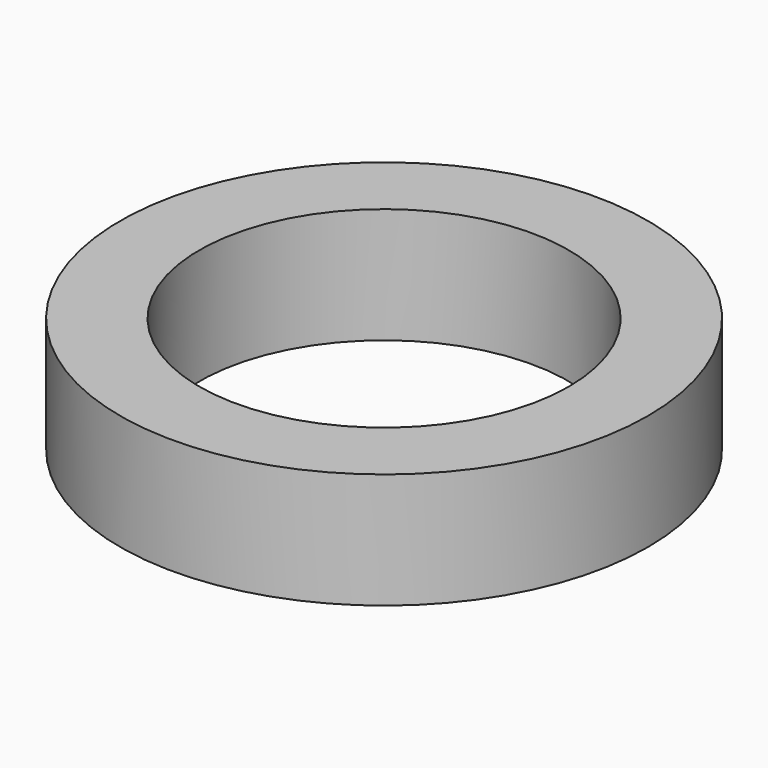
from build123d import *

# Parameters (mm, degrees)
F0_R     = 4
F0_R_2   = 2.8
F1_DEPTH = 1.75


with BuildPart() as f1:
    # F0 (on Top) → F1 (new body)
    with BuildSketch(Plane.XY):
        Circle(F0_R)
        Circle(F0_R_2, mode=Mode.SUBTRACT)
        Circle(F0_R)
        Circle(F0_R_2, mode=Mode.SUBTRACT)
    extrude(amount=F1_DEPTH)


solid = f1.part
